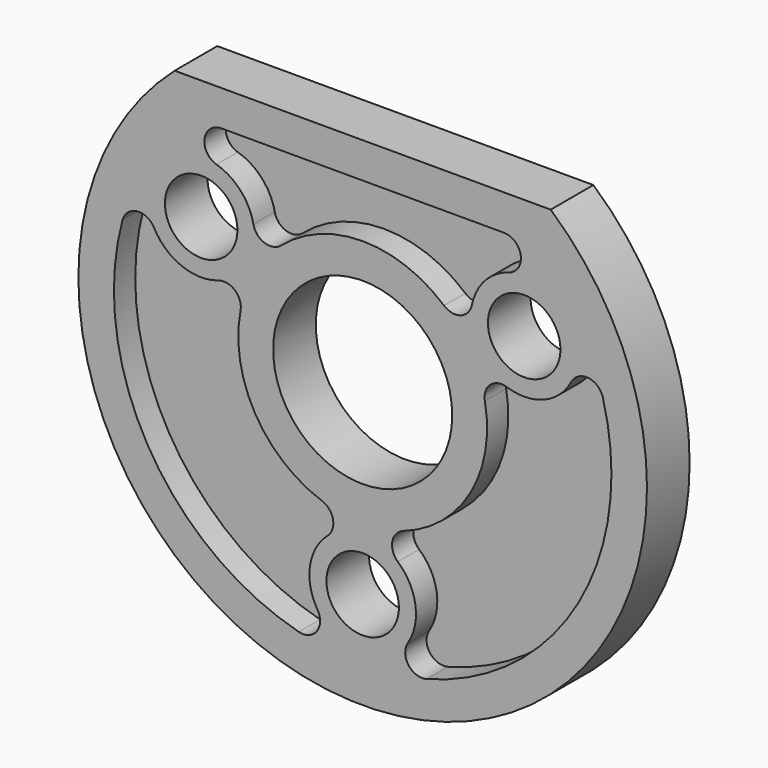
from build123d import *

# Parameters (mm, degrees)
F0_R     = 25.4
F0_R_2   = 3.2385
F0_R_3   = 8
F1_DEPTH = 4.7625
F2_W     = 50.561215
F2_H     = 14.34433
F3_DEPTH = 25.4
F5_DEPTH = 2.38125


with BuildPart() as f1:
    # F0 (on Front) → F1 (new body)
    with BuildSketch(Plane.XZ):
        Circle(F0_R)
        with Locations((0, -16.6624)):
            Circle(F0_R_2, mode=Mode.SUBTRACT)
        Circle(F0_R_3, mode=Mode.SUBTRACT)
        with Locations((-14.430062, 8.3312)):
            Circle(F0_R_2, mode=Mode.SUBTRACT)
        with Locations((14.430062, 8.3312)):
            Circle(F0_R_2, mode=Mode.SUBTRACT)
    extrude(amount=F1_DEPTH)

    # F2 (on face) → F3 (cut)
    with BuildSketch(Plane.XZ.offset(4.7625)):
        with Locations((0.75591, 26.222165)):
            Rectangle(F2_W, F2_H)
    extrude(amount=-F3_DEPTH, mode=Mode.SUBTRACT)

    # F4 (on face) → F5 (cut)
    with BuildSketch(Plane.XZ.offset(4.7625)):
        with BuildLine():
            ThreePointArc((-3.646079, -10.497322), (-9.623707, -5.55625), (-10.913987, 2.091064))
            ThreePointArc((-10.913987, 2.091064), (-11.409826, 3.527057), (-12.900289, 3.821078))
            ThreePointArc((-12.900289, 3.821078), (-16.190201, 3.905896), (-18.639619, 6.103863))
            ThreePointArc((-18.639619, 6.103863), (-20.156405, 6.905634), (-21.458089, 5.788007))
            ThreePointArc((-21.458089, 5.788007), (-19.247415, -11.1125), (-5.716484, -21.477254))
            ThreePointArc((-5.716484, -21.477254), (-4.097748, -20.908775), (-4.033709, -19.194315))
            ThreePointArc((-4.033709, -19.194315), (-4.712495, -15.974073), (-3.140994, -13.082517))
            ThreePointArc((-3.140994, -13.082517), (-2.650392, -11.644727), (-3.646079, -10.497322))
        make_face()
        with BuildLine():
            ThreePointArc((-7.267908, 8.406258), (0, 11.1125), (7.267908, 8.406258))
            ThreePointArc((7.267908, 8.406258), (8.759433, 8.11767), (9.759295, 9.261439))
            ThreePointArc((9.759295, 9.261439), (10.905182, 11.533797), (13.057597, 12.891655))
            ThreePointArc((13.057597, 12.891655), (14.126157, 14.572961), (12.618408, 15.875))
            Line((12.618408, 15.875), (-12.618408, 15.875))
            ThreePointArc((-12.618408, 15.875), (-14.126157, 14.572961), (-13.057597, 12.891655))
            ThreePointArc((-13.057597, 12.891655), (-10.905182, 11.533797), (-9.759295, 9.261439))
            ThreePointArc((-9.759295, 9.261439), (-8.759433, 8.11767), (-7.267908, 8.406258))
        make_face()
        with BuildLine():
            ThreePointArc((10.913987, 2.091064), (9.623707, -5.55625), (3.646079, -10.497322))
            ThreePointArc((3.646079, -10.497322), (2.650392, -11.644727), (3.140994, -13.082517))
            ThreePointArc((3.140994, -13.082517), (4.712495, -15.974073), (4.033709, -19.194315))
            ThreePointArc((4.033709, -19.194315), (4.097748, -20.908775), (5.716484, -21.477254))
            ThreePointArc((5.716484, -21.477254), (19.247415, -11.1125), (21.458089, 5.788007))
            ThreePointArc((21.458089, 5.788007), (20.156405, 6.905634), (18.639619, 6.103863))
            ThreePointArc((18.639619, 6.103863), (16.190201, 3.905896), (12.900289, 3.821078))
            ThreePointArc((12.900289, 3.821078), (11.409826, 3.527057), (10.913987, 2.091064))
        make_face()
    extrude(amount=-F5_DEPTH, mode=Mode.SUBTRACT)


solid = f1.part
